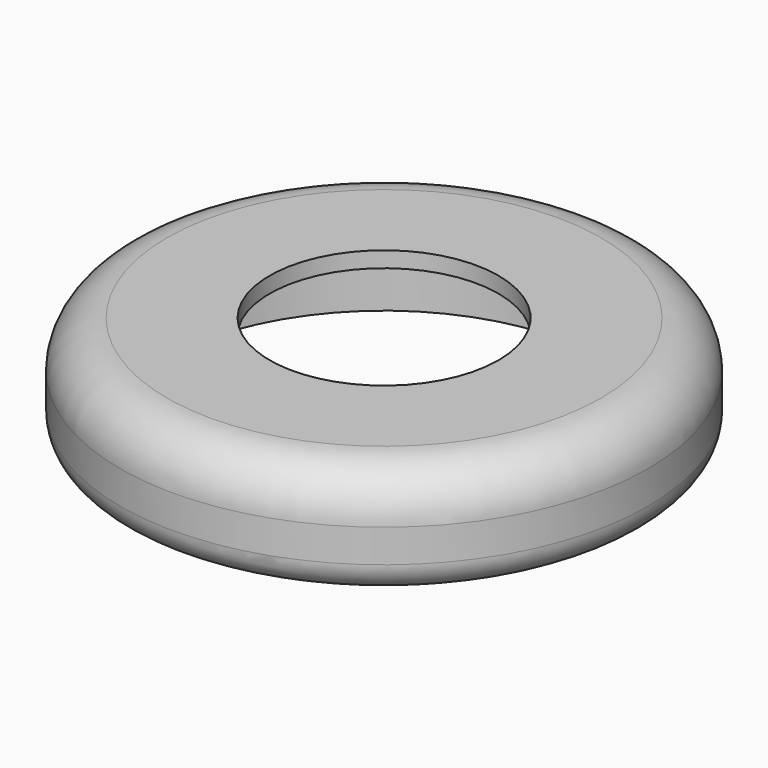
from build123d import *

# Parameters (mm, degrees)
F2_R     = 9.5
F3_R     = 6
F4_R     = 45.15
F4_R_2   = 42.15
F5_DEPTH = 1
F4_R_3   = 24.2
F4_R_4   = 23.2
F6_DEPTH = 0.5


with BuildPart() as f1:
    # F0 (on Front) → F1 (revolve)
    with BuildSketch(Plane.XZ):
        Polygon((53.5, 22.2), (23.2, 22.2), (23.2, 18.5), (45.15, 18.5), (45.15, 0), (53.5, 0), align=None)
    revolve(axis=Axis((0, 0, 3.413312), (0, 0, -1)))

    # F2
    f2_edges = [f1.edges().sort_by_distance(p)[0] for p in [
        (-53.5, 0, 22.2),
    ]]
    fillet(f2_edges, radius=F2_R)

    # F3
    f3_edges = [f1.edges().sort_by_distance(p)[0] for p in [
        (-53.5, 0, 0),
    ]]
    fillet(f3_edges, radius=F3_R)

    # F4 (on face) → F5 (cut)
    with BuildSketch(Plane(origin=(0, 0, 18.5), x_dir=(1, 0, 0), z_dir=(0, 0, -1))):
        Circle(F4_R)
        Circle(F4_R_2, mode=Mode.SUBTRACT)
    extrude(amount=-F5_DEPTH, mode=Mode.SUBTRACT)

    # F4 (on face) → F6 (cut)
    with BuildSketch(Plane(origin=(0, 0, 18.5), x_dir=(1, 0, 0), z_dir=(0, 0, -1))):
        Circle(F4_R_3)
        Circle(F4_R_4, mode=Mode.SUBTRACT)
    extrude(amount=-F6_DEPTH, mode=Mode.SUBTRACT)


solid = f1.part
